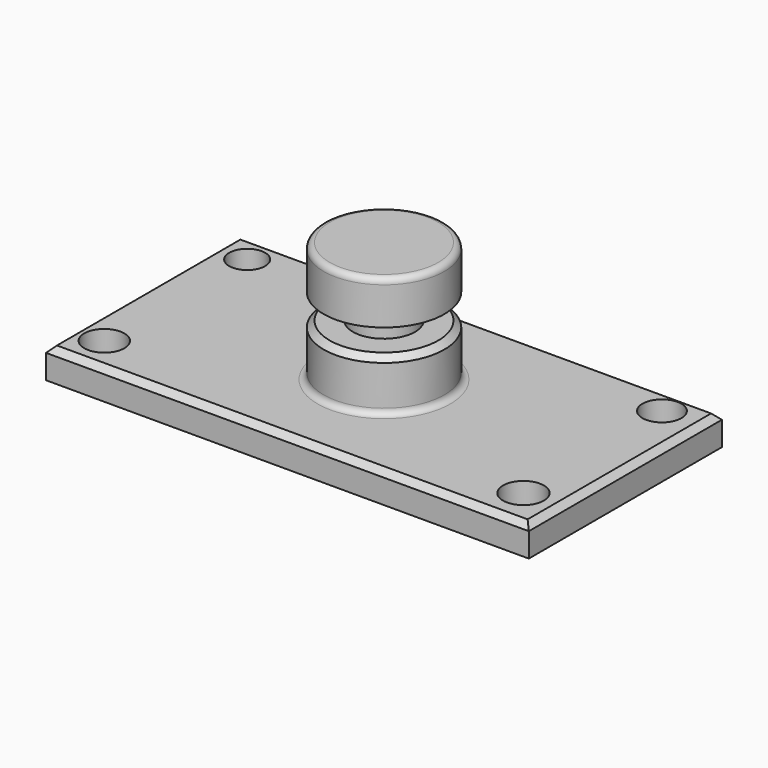
from build123d import *

# Parameters (mm, degrees)
F0_W     = 101.6
F0_H     = 50.8
F1_DEPTH = 6.35
F2_R     = 3.789272
F2_R_2   = 4.108367
F2_R_3   = 4.310253
F2_R_4   = 4.227881
F3_DEPTH = 6.35
F4_W     = 12.7
F4_H     = 31.75
F6_W     = 6.35
F6_H     = 5.291667
F8_SIZE  = 1.27
F9_R     = 1.27
F10_SIZE = 1.27


with BuildPart() as f1:
    # F0 (on Top) → F1 (new body)
    with BuildSketch(Plane.XY):
        Rectangle(F0_W, F0_H)
    extrude(amount=F1_DEPTH)

    # F2 (on face) → F3 (cut)
    with BuildSketch(Plane.XY.offset(6.35)):
        with Locations((-44.241536, 19.306498)):
            Circle(F2_R)
        with Locations((42.667963, 19.790674)):
            Circle(F2_R_2)
        with Locations((43.152139, -17.248752)):
            Circle(F2_R_3)
        with Locations((-44.483624, -17.975016)):
            Circle(F2_R_4)
    extrude(amount=-F3_DEPTH, mode=Mode.SUBTRACT)

    # F4 (on Front) → F5 (revolve)
    with BuildSketch(Plane.XZ):
        with Locations((-6.35, 15.875)):
            Rectangle(F4_W, F4_H)
    revolve(axis=Axis((0, 0, 15.875), (0, 0, 1)))

    # F6 (on Front) → F7 (revolve, cut)
    with BuildSketch(Plane.XZ):
        with Locations((9.708053, 19.931483)):
            Rectangle(F6_W, F6_H)
    revolve(axis=Axis((0, 0, 31.75), (0, 0, -1)), mode=Mode.SUBTRACT)

    # F8
    f8_edges = [f1.edges().sort_by_distance(p)[0] for p in [
        (0, -25.4, 6.35),
        (-50.8, 0, 6.35),
        (0, 25.4, 6.35),
        (50.8, 0, 6.35),
    ]]
    chamfer(f8_edges, length=F8_SIZE)

    # F9
    f9_edges = [f1.edges().sort_by_distance(p)[0] for p in [
        (12.7, 0, 6.35),
        (12.7, 0, 31.75),
    ]]
    fillet(f9_edges, radius=F9_R)

    # F10
    f10_edges = [f1.edges().sort_by_distance(p)[0] for p in [
        (12.7, 0, 17.285649),
    ]]
    chamfer(f10_edges, length=F10_SIZE)


solid = f1.part
